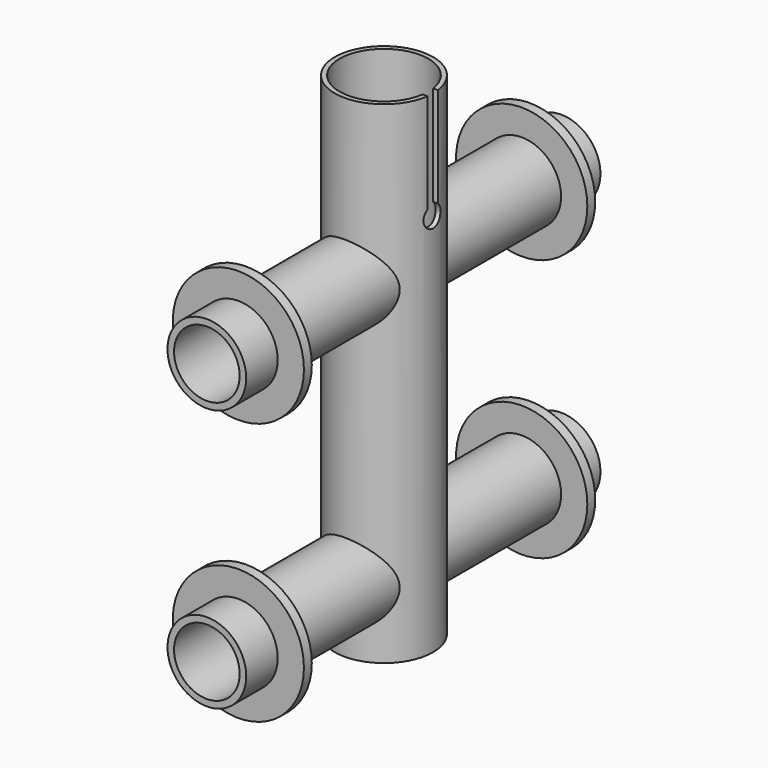
from build123d import *

# Parameters (mm, degrees)
F4_R      = 15
F4_R_2    = 13.55
F6_DEPTH  = 150
F5_R      = 12
F5_R_2    = 10
F10_DEPTH = 4
F11_START = -12
F5_R_3    = 20
F11_DEPTH = 3


with BuildPart() as f6:
    # F4 (on Top) → F6 (new body, through all)
    with BuildSketch(Plane.XY):
        with Locations((0, -67.5)):
            Circle(F4_R)
        with Locations((0, -67.5)):
            Circle(F4_R_2, mode=Mode.SUBTRACT)
    extrude(amount=F6_DEPTH)

    # F5 (on offset) → F7 (join, up to the next surface of F6)
    with BuildSketch(Plane.XZ.offset(135)):
        with Locations((0, 100)):
            Circle(F5_R)
        with Locations((0, 100)):
            Circle(F5_R_2, mode=Mode.SUBTRACT)
        with Locations((0, 20)):
            Circle(F5_R)
        with Locations((0, 20)):
            Circle(F5_R_2, mode=Mode.SUBTRACT)
    extrude(until=Until.NEXT, dir=(0, 1, 0))

    # F9 (on plane+point) → F10 (cut)
    with BuildSketch(Plane.YZ.offset(15)):
        with BuildLine():
            ThreePointArc((-69.5, 119.5617376915), (-67.5, 120.25), (-65.5, 119.5617376915))
            Line((-65.5, 119.5617376915), (-65.5, 150))
            Line((-65.5, 150), (-69.5, 150))
            Line((-69.5, 150), (-69.5, 119.5617376915))
        make_face()
        with BuildLine():
            ThreePointArc((-69.5, 119.5617376915), (-68.9252192814, 114.0791696386), (-64.25, 117))
            ThreePointArc((-64.25, 117), (-64.5791696386, 118.4252192814), (-65.5, 119.5617376915))
            Line((-65.5, 119.5617376915), (-65.5, 117))
            Line((-65.5, 117), (-69.5, 117))
            Line((-69.5, 117), (-69.5, 119.5617376915))
        make_face()
        with BuildLine():
            Line((-65.5, 117), (-65.5, 119.5617376915))
            ThreePointArc((-65.5, 119.5617376915), (-67.5, 120.25), (-69.5, 119.5617376915))
            Line((-69.5, 119.5617376915), (-69.5, 117))
            Line((-69.5, 117), (-65.5, 117))
        make_face()
    extrude(amount=-F10_DEPTH, mode=Mode.SUBTRACT)

    # F5 (on offset) → F11 (join)
    with BuildSketch(Plane.XZ.offset(135).offset(F11_START)):
        with Locations((0, 100)):
            Circle(F5_R_3)
        with Locations((0, 100)):
            Circle(F5_R, mode=Mode.SUBTRACT)
        with Locations((0, 20)):
            Circle(F5_R_3)
        with Locations((0, 20)):
            Circle(F5_R, mode=Mode.SUBTRACT)
    extrude(amount=-F11_DEPTH)

    # F12: F6 across plane


with BuildPart() as f6_1:
    add(f6.part)
    add(f6.part.mirror(Plane.XZ.offset(67.5)))


solid = f6_1.part
